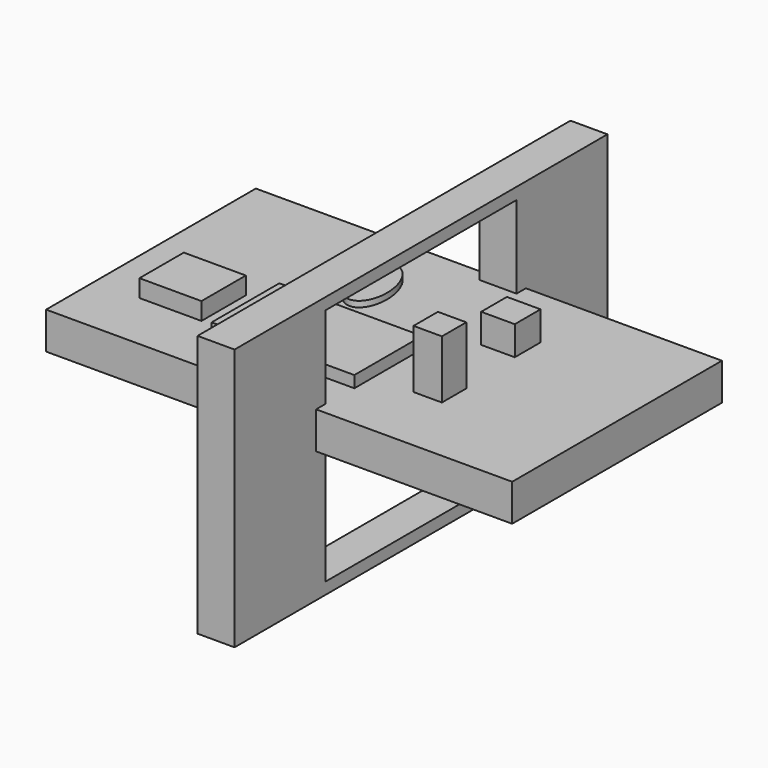
from build123d import *

# Parameters (mm, degrees)
F0_W      = 80
F0_H      = 45
F0_W_2    = 41
F0_H_2    = 41
F1_DEPTH  = 6.35
F2_W      = 80
F2_H      = 45
F3_DEPTH  = 6.35
F4_W      = 24.494496
F4_H      = 14.529799
F5_DEPTH  = 2
F6_W      = 10.645555
F6_H      = 9.515388
F7_DEPTH  = 3
F9_DEPTH  = 1
F10_W     = 4.871065
F10_H     = 5.224564
F11_DEPTH = 10
F12_W     = 5.768938
F12_H     = 5.530469
F13_DEPTH = 5


with BuildPart() as f1:
    # F0 (on Right) → F1 (new body)
    with BuildSketch(Plane.YZ):
        Rectangle(F0_W, F0_H)
        Rectangle(F0_W_2, F0_H_2, mode=Mode.SUBTRACT)
    extrude(amount=F1_DEPTH)


with BuildPart() as f3:
    # F2 (on Top) → F3 (new body)
    with BuildSketch(Plane.XY):
        Rectangle(F2_W, F2_H)
    extrude(amount=F3_DEPTH)

    # F4 (on face) → F5 (join)
    with BuildSketch(Plane.XY.offset(6.35)):
        with Locations((-5.713129, -7.264899)):
            Rectangle(F4_W, F4_H)
    extrude(amount=F5_DEPTH)

    # F6 (on face) → F7 (join)
    with BuildSketch(Plane.XY.offset(6.35)):
        with Locations((-27.001003, -7.307802)):
            Rectangle(F6_W, F6_H)
    extrude(amount=F7_DEPTH)

    # F8 (on face) → F9 (join)
    with BuildSketch(Plane.XY.offset(6.35)):
        with BuildLine():
            add(Edge.make_bspline(
                [(-10.687758, 15.299371), (-16.407278, 14.243105), (-11.948368, 6.112081), (-7.489459, -2.018943), (-6.228849, 7.168346), (-4.968238, 16.355636), (-10.687758, 15.299371)],
                knots=[0, 0, 0, 2.094395, 2.094395, 4.18879, 4.18879, 6.283185, 6.283185, 6.283185], degree=2, weights=[1, 0.5, 1, 0.5, 1, 0.5, 1]))
        make_face()
    extrude(amount=F9_DEPTH)

    # F10 (on face) → F11 (join)
    with BuildSketch(Plane.XY.offset(6.35)):
        with Locations((15.845646, -7.814308)):
            Rectangle(F10_W, F10_H)
    extrude(amount=F11_DEPTH)

    # F12 (on face) → F13 (join)
    with BuildSketch(Plane.XY.offset(6.35)):
        with Locations((14.81475, 8.694622)):
            Rectangle(F12_W, F12_H)
    extrude(amount=F13_DEPTH)


solid = Compound([f1.part, f3.part])
